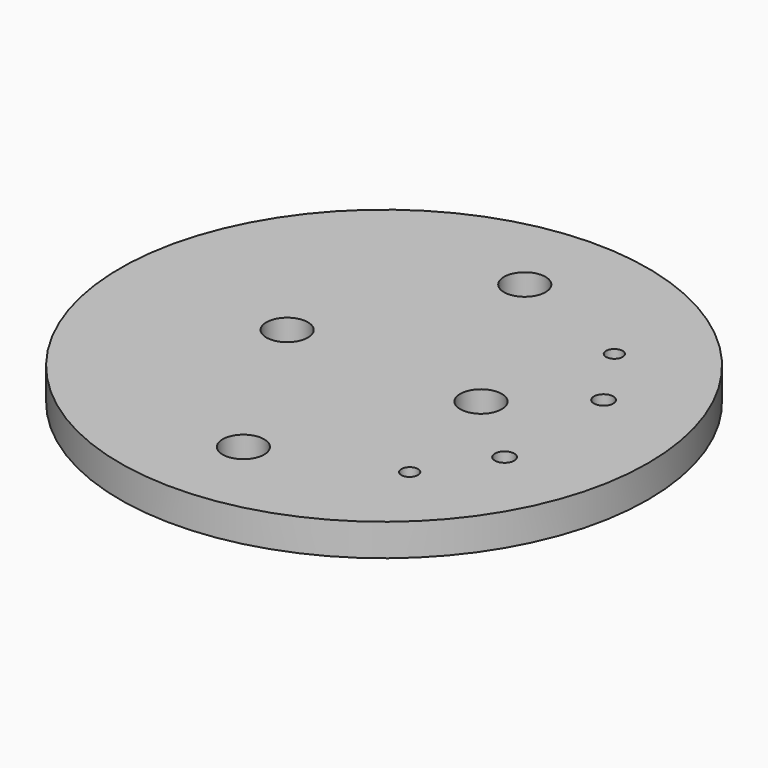
from build123d import *

# Parameters (mm, degrees)
SKETCH_R      = 47.66
PAD_DEPTH     = 5.8
SKETCH001_R   = 3.75
SKETCH001_R_2 = 1.5
SKETCH001_R_3 = 1.75
POCKET_DEPTH  = 5.801


with BuildPart() as part:
    # Sketch → Pad (new body)
    with BuildSketch(Plane.XY):
        Circle(SKETCH_R)
    extrude(amount=PAD_DEPTH)

    # Sketch001 (on Face3 of Pad) → Pocket (cut, through all)
    with BuildSketch(Plane.XY.offset(5.8)):
        with Locations((0, 31.75)):
            Circle(SKETCH001_R)
        with Locations((0, -31.75)):
            Circle(SKETCH001_R)
        with Locations((-17.5, 0)):
            Circle(SKETCH001_R)
        with Locations((17.5, 0)):
            Circle(SKETCH001_R)
        with Locations((23.098822, 23.098822)):
            Circle(SKETCH001_R_2)
        with Locations((23.098822, -23.098822)):
            Circle(SKETCH001_R_2)
        with Locations((30.696626, 11.172658)):
            Circle(SKETCH001_R_3)
        with Locations((30.696626, -11.172658)):
            Circle(SKETCH001_R_3)
    extrude(amount=-POCKET_DEPTH, mode=Mode.SUBTRACT)


solid = part.part
